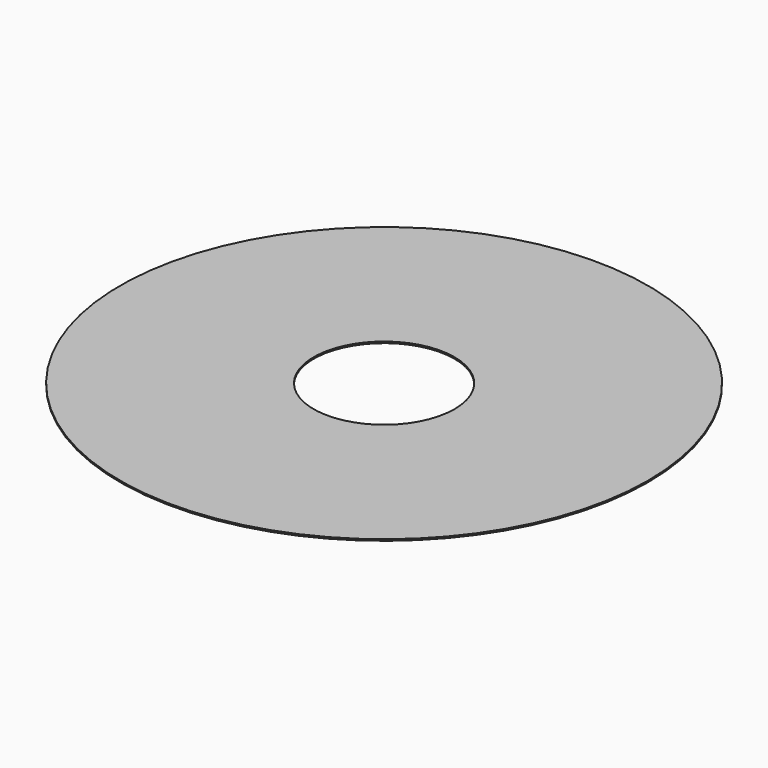
from build123d import *

# Parameters (mm, degrees)
F0_R     = 53.3162966907
F0_R_2   = 50.3162966907
F0_R_3   = 14.2245
F1_DEPTH = 0.3


with BuildPart() as f1:
    # F0 (on Top) → F1 (new body)
    with BuildSketch(Plane.XY):
        Circle(F0_R)
        Circle(F0_R_2, mode=Mode.SUBTRACT)
        Circle(F0_R_2)
        Circle(F0_R_3, mode=Mode.SUBTRACT)
    extrude(amount=F1_DEPTH)


solid = f1.part
